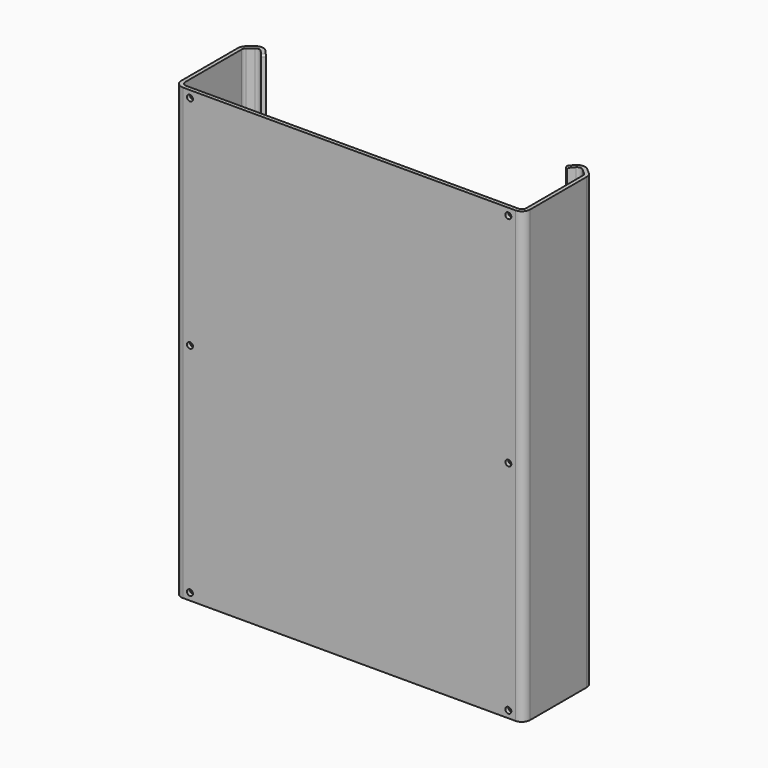
from build123d import *

# Parameters (mm, degrees)
F1_DEPTH = 203.2
F2_R     = 3.69316
F3_R     = 1.98374
F4_R     = 0.762
F5_R     = 1.35255
F6_DEPTH = 1.70942


with BuildPart() as f1:
    # F0 (on Top) → F1 (new body)
    with BuildSketch(Plane.XY):
        Polygon((0, -34.912743), (0, 0), (4.632677, 3.932751), (7.97125, 0), (9.274422, 1.106282), (4.829567, 6.342205), (-1.70942, 0.791159), (-1.70942, -36.622163), (155.970525, -36.622163), (155.970525, 0.791159), (149.431538, 6.342205), (144.986683, 1.106282), (146.289855, 0), (149.628427, 3.932751), (154.261105, 0), (154.261105, -34.912743), align=None)
    extrude(amount=F1_DEPTH)

    # F2
    f2_edges = [f1.edges().sort_by_distance(p)[0] for p in [
        (149.431538, 6.342205, 101.6),
        (155.970525, 0.791159, 101.6),
        (155.970525, -36.622163, 101.6),
        (-1.70942, -36.622163, 101.6),
        (-1.70942, 0.791159, 101.6),
        (4.829567, 6.342205, 101.6),
    ]]
    fillet(f2_edges, radius=F2_R)

    # F3
    f3_edges = [f1.edges().sort_by_distance(p)[0] for p in [
        (149.628427, 3.932751, 101.6),
        (154.261105, 0, 101.6),
        (154.261105, -34.912743, 101.6),
        (0, -34.912743, 101.6),
        (0, 0, 101.6),
        (4.632677, 3.932751, 101.6),
    ]]
    fillet(f3_edges, radius=F3_R)

    # F4
    f4_edges = [f1.edges().sort_by_distance(p)[0] for p in [
        (145.638269, 0.553141, 203.2),
        (145.638269, 0.553141, 0),
        (8.622836, 0.553141, 0),
        (8.622836, 0.553141, 203.2),
    ]]
    fillet(f4_edges, radius=F4_R)

    # F5 (on face) → F6 (cut, through all)
    with BuildSketch(Plane(origin=(0, -34.912743, 0), x_dir=(-1, 0, 0), z_dir=(0, 1, 0))):
        with Locations((-5.15874, 3.175)):
            Circle(F5_R)
        with Locations((-5.15874, 101.6)):
            Circle(F5_R)
        with Locations((-5.15874, 200.025)):
            Circle(F5_R)
        with Locations((-149.102365, 200.025)):
            Circle(F5_R)
        with Locations((-149.102365, 101.6)):
            Circle(F5_R)
        with Locations((-149.102365, 3.175)):
            Circle(F5_R)
    extrude(amount=-F6_DEPTH, mode=Mode.SUBTRACT)


solid = f1.part
